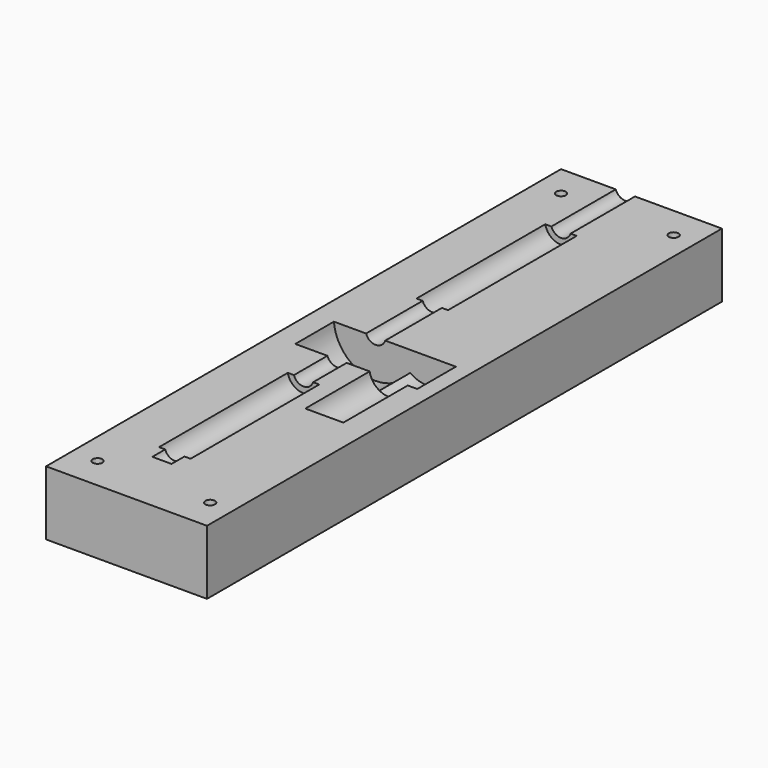
from build123d import *

# Parameters (mm, degrees)
SKETCH006_R     = 3.15
PAD002_DEPTH    = 190
SKETCH011_R     = 5
PAD007_DEPTH    = 50
SKETCH010_R     = 5
PAD006_DEPTH    = 50
SKETCH008_R     = 13
PAD004_DEPTH    = 15
SKETCH009_R     = 9
PAD005_DEPTH    = 15
SKETCH013_R     = 6
PAD008_DEPTH    = 26
BOX001_W        = 50
BOX001_H        = 200
BOX001_DEPTH    = 20
SKETCH015_R     = 1.5
POCKET001_DEPTH = 434.247304
SKETCH016_R     = 1.5
POCKET002_DEPTH = 434.247304
SKETCH017_R     = 3
POCKET003_DEPTH = 5
SKETCH018_R     = 3
POCKET004_DEPTH = 5


with BuildPart() as pad002:
    # Sketch006 → Pad002 (new body)
    with BuildSketch(Plane.XZ.offset(80)):
        Circle(SKETCH006_R)
    extrude(amount=-PAD002_DEPTH)


with BuildPart() as pad007:
    # Sketch011 → Pad007 (new body)
    with BuildSketch(Plane.XZ.offset(-75)):
        Circle(SKETCH011_R)
    extrude(amount=PAD007_DEPTH)


with BuildPart() as scassi_perno:
    # Sketch010 → Pad006 (new body)
    with BuildSketch(Plane.XZ.offset(25)):
        Circle(SKETCH010_R)
    extrude(amount=PAD006_DEPTH)

    # Fusion002: union Pad007
    add(pad007.part)


with BuildPart() as scasso_ruota_dentata:
    # Sketch008 → Pad004 (new body)
    with BuildSketch(Plane.XZ.offset(-3)):
        Circle(SKETCH008_R)
    extrude(amount=PAD004_DEPTH)


with BuildPart() as obj1:
    # Sketch009 → Pad005 (new body)
    with BuildSketch(Plane.XZ.offset(-3)):
        with Locations((15.997087, 9e-06)):
            Circle(SKETCH009_R)
    extrude(amount=PAD005_DEPTH)

    # Fusion001: union scasso_ruota_dentata
    add(scasso_ruota_dentata.part)


with BuildPart() as fusion:
    # Sketch013 → Pad008 (new body)
    with BuildSketch(Plane.XZ.offset(11)):
        with Locations((16.059561, 9e-06)):
            Circle(SKETCH013_R)
    extrude(amount=PAD008_DEPTH)

    # Fusion005: union scassi_perno, obj1
    add(scassi_perno.part)
    add(obj1.part)

    # Fusion: union Pad002
    add(pad002.part)


with BuildPart() as obj2:
    # Box001 → Box001 (new body)
    with BuildSketch(Plane(origin=(-20, -100, -21), x_dir=(1, 0, 0), z_dir=(0, 0, 1))):
        with Locations((25, 100)):
            Rectangle(BOX001_W, BOX001_H)
    extrude(amount=BOX001_DEPTH)

    # Cut001: cut Fusion
    add(fusion.part, mode=Mode.SUBTRACT)

    # Sketch015 → Pocket001 (cut, through all)
    with BuildSketch(Plane(origin=(0, 0, -21), x_dir=(1, 0, 0), z_dir=(0, 0, -1))):
        with Locations((23, 90)):
            Circle(SKETCH015_R)
    pocket001 = extrude(amount=-POCKET001_DEPTH, mode=Mode.SUBTRACT)

    # Mirrored: Pocket001 across Sketch015 H_Axis
    add(pocket001.mirror(Plane(origin=(0, 0, -21), x_dir=(0, 0, -1), z_dir=(0, -1, 0))), mode=Mode.SUBTRACT)

    # Sketch016 → Pocket002 (cut, through all)
    with BuildSketch(Plane(origin=(0, 0, -21), x_dir=(1, 0, 0), z_dir=(0, 0, -1))):
        with Locations((-12, 90)):
            Circle(SKETCH016_R)
    pocket002 = extrude(amount=-POCKET002_DEPTH, mode=Mode.SUBTRACT)

    # Mirrored001: Pocket002 across Sketch016 H_Axis
    add(pocket002.mirror(Plane(origin=(0, 0, -21), x_dir=(0, 0, -1), z_dir=(0, -1, 0))), mode=Mode.SUBTRACT)

    # Sketch017 → Pocket003 (cut)
    with BuildSketch(Plane(origin=(0, 0, -21), x_dir=(1, 0, 0), z_dir=(0, 0, -1))):
        with Locations((23, 90)):
            Circle(SKETCH017_R)
    pocket003 = extrude(amount=-POCKET003_DEPTH, mode=Mode.SUBTRACT)

    # Mirrored002: Pocket003 across Sketch017 H_Axis
    add(pocket003.mirror(Plane(origin=(0, 0, -21), x_dir=(0, 0, -1), z_dir=(0, -1, 0))), mode=Mode.SUBTRACT)

    # Sketch018 → Pocket004 (cut)
    with BuildSketch(Plane(origin=(0, 0, -21), x_dir=(1, 0, 0), z_dir=(0, 0, -1))):
        with Locations((-12, 90)):
            Circle(SKETCH018_R)
    pocket004 = extrude(amount=-POCKET004_DEPTH, mode=Mode.SUBTRACT)

    # Mirrored003: Pocket004 across Sketch018 H_Axis
    add(pocket004.mirror(Plane(origin=(0, 0, -21), x_dir=(0, 0, -1), z_dir=(0, -1, 0))), mode=Mode.SUBTRACT)


solid = obj2.part
